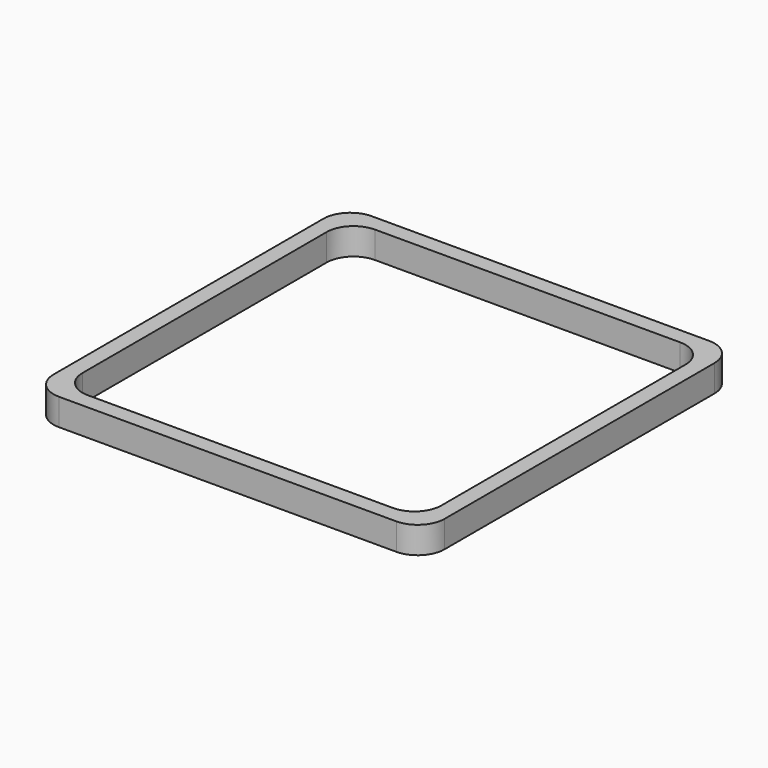
from build123d import *

# Parameters (mm, degrees)
EXTRUDE003_DEPTH = 5
EXTRUDE002_DEPTH = 5


with BuildPart() as extrude003:
    # Sketch010 (on Face2 of Cut) → Extrude003 (new body)
    with BuildSketch(Plane(origin=(0, 0, 0), x_dir=(1, 0, 0), z_dir=(0, 0, -1))):
        with BuildLine():
            Line((-28.464466, 33.464466), (28.464466, 33.464466))
            ThreePointArc((33.464466, 28.464466), (32, 32), (28.464466, 33.464466))
            Line((33.464466, 28.464466), (33.464466, -28.464466))
            ThreePointArc((28.464466, -33.464466), (32, -32), (33.464466, -28.464466))
            Line((28.464466, -33.464466), (-28.464466, -33.464466))
            ThreePointArc((-33.464466, -28.464466), (-32, -32), (-28.464466, -33.464466))
            Line((-33.464466, -28.464466), (-33.464466, 28.464466))
            ThreePointArc((-28.464466, 33.464466), (-32, 32), (-33.464466, 28.464466))
        make_face()
    extrude(amount=EXTRUDE003_DEPTH)


with BuildPart() as obj1:
    # Sketch009 (on Face2 of Cut) → Extrude002 (new body)
    with BuildSketch(Plane(origin=(0, 0, 0), x_dir=(1, 0, 0), z_dir=(0, 0, -1))):
        with BuildLine():
            ThreePointArc((-31.464466, 36.464466), (-35, 35), (-36.464466, 31.464466))
            Line((-36.464466, -31.464466), (-36.464466, 31.464466))
            ThreePointArc((-36.464466, -31.464466), (-35, -35), (-31.464466, -36.464466))
            Line((31.464466, -36.464466), (-31.464466, -36.464466))
            ThreePointArc((31.464466, -36.464466), (35, -35), (36.464466, -31.464466))
            Line((36.464466, 31.464466), (36.464466, -31.464466))
            ThreePointArc((36.464466, 31.464466), (35, 35), (31.464466, 36.464466))
            Line((-31.464466, 36.464466), (31.464466, 36.464466))
        make_face()
    extrude(amount=EXTRUDE002_DEPTH)

    # Cut001: cut Extrude003
    add(extrude003.part, mode=Mode.SUBTRACT)


solid = obj1.part
